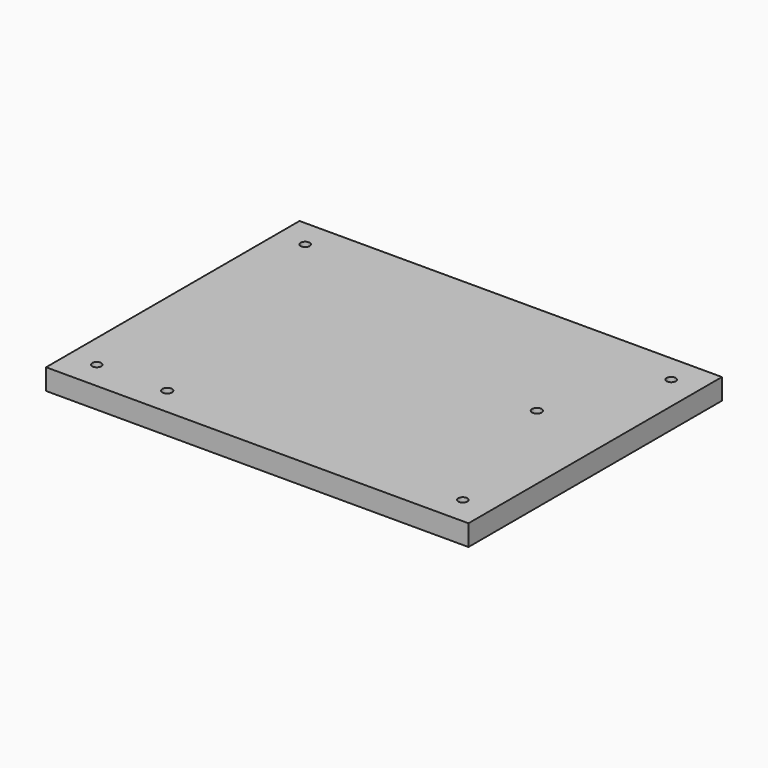
from build123d import *

# Parameters (mm, degrees)
F0_W     = 152.4
F0_H     = 114.3
F0_R     = 1.6383
F0_R_2   = 1.75
F1_DEPTH = 7.5438
F2_SIZE  = 1.27


with BuildPart() as f1:
    # F0 (on Top) → F1 (new body)
    with BuildSketch(Plane.XY):
        Rectangle(F0_W, F0_H)
        with Locations((-66.04, -46.99)):
            Circle(F0_R, mode=Mode.SUBTRACT)
        with Locations((-40.64, -46.99)):
            Circle(F0_R_2, mode=Mode.SUBTRACT)
        with Locations((66.04, -46.99)):
            Circle(F0_R, mode=Mode.SUBTRACT)
        with Locations((-66.04, 46.99)):
            Circle(F0_R, mode=Mode.SUBTRACT)
        with Locations((48.36, 8.51)):
            Circle(F0_R_2, mode=Mode.SUBTRACT)
        with Locations((66.04, 46.99)):
            Circle(F0_R, mode=Mode.SUBTRACT)
    extrude(amount=F1_DEPTH)

    # F2
    f2_edges = [f1.edges().sort_by_distance(p)[0] for p in [
        (-67.6783, -46.99, 0),
        (-42.39, -46.99, 0),
        (46.61, 8.51, 0),
        (64.4017, 46.99, 0),
        (64.4017, -46.99, 0),
        (-67.6783, 46.99, 0),
    ]]
    chamfer(f2_edges, length=F2_SIZE)


solid = f1.part
